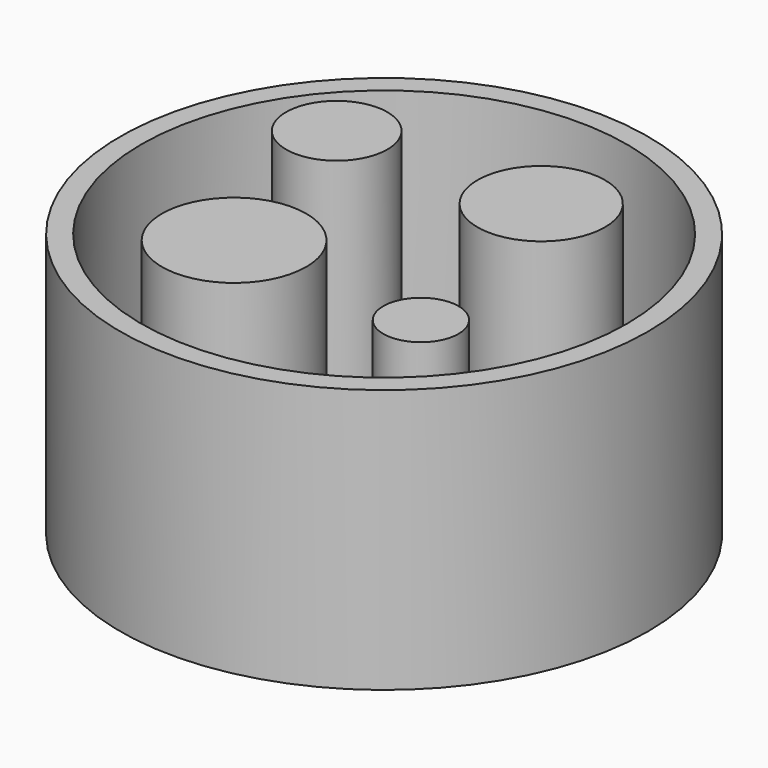
from build123d import *

# Parameters (mm, degrees)
F0_R     = 25
F0_R_2   = 23
F1_DEPTH = 25
F0_R_3   = 6.834856
F0_R_4   = 3.562232
F0_R_5   = 4.797994
F0_R_6   = 6.041215
F2_DEPTH = 5
F3_DEPTH = 25


with BuildPart() as f1:
    # F0 (on Top) → F1 (new body)
    with BuildSketch(Plane.XY):
        Circle(F0_R)
        Circle(F0_R_2, mode=Mode.SUBTRACT)
    extrude(amount=F1_DEPTH)

    # F0 (on Top) → F2 (join)
    with BuildSketch(Plane.XY):
        Circle(F0_R_2)
        with Locations((-8.042553, -7.707447)):
            Circle(F0_R_3, mode=Mode.SUBTRACT)
        with Locations((10.723404, -9.047872)):
            Circle(F0_R_4, mode=Mode.SUBTRACT)
        with Locations((-13.06915, 10.723405)):
            Circle(F0_R_5, mode=Mode.SUBTRACT)
        with Locations((6.031916, 11.058511)):
            Circle(F0_R_6, mode=Mode.SUBTRACT)
    extrude(amount=F2_DEPTH)

    # F0 (on Top) → F3 (join)
    with BuildSketch(Plane.XY):
        with Locations((-8.042553, -7.707447)):
            Circle(F0_R_3)
        with Locations((6.031916, 11.058511)):
            Circle(F0_R_6)
        with Locations((-13.06915, 10.723405)):
            Circle(F0_R_5)
        with Locations((10.723404, -9.047872)):
            Circle(F0_R_4)
    extrude(amount=F3_DEPTH)


solid = f1.part
